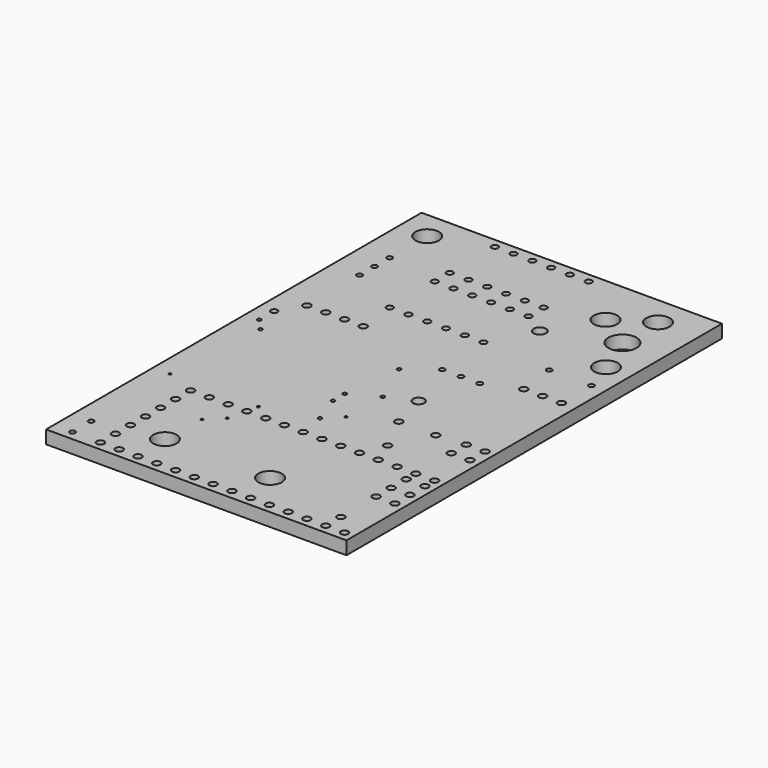
from build123d import *

# Parameters (mm, degrees)
MAINSKETCH_W    = 40.64
MAINSKETCH_H    = 63.5
MAIN_DEPTH      = 1.778
HOLESKETCH_R    = 1.5875
HOLESKETCH_R_2  = 1.905
HOLESKETCH_R_3  = 0.250152
HOLESKETCH_R_4  = 0.254962
HOLESKETCH_R_5  = 0.442576
HOLESKETCH_R_6  = 0.505114
HOLESKETCH_R_7  = 0.774508
HOLESKETCH_R_8  = 0.846667
HOLESKETCH_R_9  = 0.509924
HOLESKETCH_R_10 = 0.365606
HOLESKETCH_R_11 = 0.182803
HOLESKETCH_R_12 = 0.177992
HOLESKETCH_R_13 = 0.173182
HOLES_DEPTH     = 3.556


with BuildPart() as part:
    # MainSketch → Main (new body)
    with BuildSketch(Plane.XY):
        with Locations((20.32, 31.75)):
            Rectangle(MAINSKETCH_W, MAINSKETCH_H)
    extrude(amount=MAIN_DEPTH)

    # HoleSketch → Holes (cut)
    with BuildSketch(Plane.XY):
        with Locations((35.184773, 59.507197)):
            Circle(HOLESKETCH_R)
        with Locations((35.175152, 53.513182)):
            Circle(HOLESKETCH_R_2)
        with Locations((30.489621, 56.505379)):
            Circle(HOLESKETCH_R)
        with Locations((3.367424, 32.038636)):
            Circle(HOLESKETCH_R_3)
        with Locations((20.993485, 20.069848)):
            Circle(HOLESKETCH_R_3)
        with Locations((1.905, 33.664621)):
            Circle(HOLESKETCH_R_4)
        with Locations((20.522045, 34.059091)):
            Circle(HOLESKETCH_R_4)
        with Locations((19.540682, 26.073485)):
            Circle(HOLESKETCH_R_4)
        with Locations((19.569545, 24.062652)):
            Circle(HOLESKETCH_R_4)
        with Locations((23.629697, 62.23)):
            Circle(HOLESKETCH_R_5)
        with Locations((23.629697, 54.61)):
            Circle(HOLESKETCH_R_5)
        with Locations((21.089697, 62.23)):
            Circle(HOLESKETCH_R_5)
        with Locations((21.089697, 54.61)):
            Circle(HOLESKETCH_R_5)
        with Locations((18.549697, 62.23)):
            Circle(HOLESKETCH_R_5)
        with Locations((18.549697, 54.61)):
            Circle(HOLESKETCH_R_5)
        with Locations((16.009697, 62.23)):
            Circle(HOLESKETCH_R_5)
        with Locations((16.009697, 54.61)):
            Circle(HOLESKETCH_R_5)
        with Locations((13.469697, 62.23)):
            Circle(HOLESKETCH_R_5)
        with Locations((10.929697, 62.23)):
            Circle(HOLESKETCH_R_5)
        with Locations((13.469697, 54.61)):
            Circle(HOLESKETCH_R_5)
        with Locations((10.929697, 54.61)):
            Circle(HOLESKETCH_R_5)
        with Locations((6.35, 1.260379)):
            Circle(HOLESKETCH_R_6)
        with Locations((8.89, 1.260379)):
            Circle(HOLESKETCH_R_6)
        with Locations((11.43, 1.260379)):
            Circle(HOLESKETCH_R_6)
        with Locations((6.35, 16.500379)):
            Circle(HOLESKETCH_R_6)
        with Locations((6.35, 3.800379)):
            Circle(HOLESKETCH_R_6)
        with Locations((6.35, 6.340379)):
            Circle(HOLESKETCH_R_6)
        with Locations((6.35, 8.880379)):
            Circle(HOLESKETCH_R_6)
        with Locations((6.35, 11.420379)):
            Circle(HOLESKETCH_R_6)
        with Locations((6.35, 13.960379)):
            Circle(HOLESKETCH_R_6)
        with Locations((13.97, 1.260379)):
            Circle(HOLESKETCH_R_6)
        with Locations((16.51, 1.260379)):
            Circle(HOLESKETCH_R_6)
        with Locations((19.05, 1.260379)):
            Circle(HOLESKETCH_R_6)
        with Locations((21.59, 1.260379)):
            Circle(HOLESKETCH_R_6)
        with Locations((24.13, 1.260379)):
            Circle(HOLESKETCH_R_6)
        with Locations((26.67, 1.260379)):
            Circle(HOLESKETCH_R_6)
        with Locations((29.21, 1.260379)):
            Circle(HOLESKETCH_R_6)
        with Locations((31.75, 1.260379)):
            Circle(HOLESKETCH_R_6)
        with Locations((34.29, 1.260379)):
            Circle(HOLESKETCH_R_6)
        with Locations((36.83, 1.260379)):
            Circle(HOLESKETCH_R_6)
        with Locations((39.37, 1.260379)):
            Circle(HOLESKETCH_R_6)
        with Locations((8.89, 16.500379)):
            Circle(HOLESKETCH_R_6)
        with Locations((11.43, 16.500379)):
            Circle(HOLESKETCH_R_6)
        with Locations((13.97, 16.500379)):
            Circle(HOLESKETCH_R_6)
        with Locations((16.51, 16.500379)):
            Circle(HOLESKETCH_R_6)
        with Locations((19.05, 16.500379)):
            Circle(HOLESKETCH_R_6)
        with Locations((21.59, 16.500379)):
            Circle(HOLESKETCH_R_6)
        with Locations((24.13, 16.500379)):
            Circle(HOLESKETCH_R_6)
        with Locations((26.67, 16.500379)):
            Circle(HOLESKETCH_R_6)
        with Locations((29.21, 16.500379)):
            Circle(HOLESKETCH_R_6)
        with Locations((31.75, 16.500379)):
            Circle(HOLESKETCH_R_6)
        with Locations((34.29, 16.500379)):
            Circle(HOLESKETCH_R_6)
        with Locations((36.83, 16.500379)):
            Circle(HOLESKETCH_R_6)
        with Locations((39.37, 16.500379)):
            Circle(HOLESKETCH_R_6)
        with Locations((36.83, 3.800379)):
            Circle(HOLESKETCH_R_6)
        with Locations((25.409621, 6.10947)):
            Circle(HOLESKETCH_R)
        with Locations((3.819621, 59.680379)):
            Circle(HOLESKETCH_R)
        with Locations((11.18947, 6.10947)):
            Circle(HOLESKETCH_R)
        with Locations((26.67, 29.662197)):
            Circle(HOLESKETCH_R_7)
        with Locations((26.67, 50.165)):
            Circle(HOLESKETCH_R_8)
        with Locations((39.37, 12.324773)):
            Circle(HOLESKETCH_R_6)
        with Locations((39.37, 9.784773)):
            Circle(HOLESKETCH_R_6)
        with Locations((36.83, 9.784773)):
            Circle(HOLESKETCH_R_6)
        with Locations((39.37, 14.864773)):
            Circle(HOLESKETCH_R_6)
        with Locations((36.83, 12.324773)):
            Circle(HOLESKETCH_R_6)
        with Locations((36.83, 14.864773)):
            Circle(HOLESKETCH_R_6)
        with Locations((30.48, 19.675379)):
            Circle(HOLESKETCH_R_6)
        with Locations((32.981515, 24.678409)):
            Circle(HOLESKETCH_R_6)
        with Locations((27.988106, 24.678409)):
            Circle(HOLESKETCH_R_9)
        with Locations((39.37, 22.484773)):
            Circle(HOLESKETCH_R_6)
        with Locations((36.83, 22.484773)):
            Circle(HOLESKETCH_R_6)
        with Locations((39.37, 25.024773)):
            Circle(HOLESKETCH_R_6)
        with Locations((36.83, 25.024773)):
            Circle(HOLESKETCH_R_6)
        with Locations((38.735, 38.725379)):
            Circle(HOLESKETCH_R_6)
        with Locations((33.655, 38.725379)):
            Circle(HOLESKETCH_R_6)
        with Locations((36.195, 38.725379)):
            Circle(HOLESKETCH_R_6)
        with Locations((37.301439, 48.057955)):
            Circle(HOLESKETCH_R)
        with Locations((3.81, 48.26)):
            Circle(HOLESKETCH_R_10)
        with Locations((3.81, 53.34)):
            Circle(HOLESKETCH_R_10)
        with Locations((3.81, 50.8)):
            Circle(HOLESKETCH_R_10)
        with Locations((29.21, 36.83)):
            Circle(HOLESKETCH_R_10)
        with Locations((24.13, 36.83)):
            Circle(HOLESKETCH_R_10)
        with Locations((26.67, 36.83)):
            Circle(HOLESKETCH_R_10)
        with Locations((3.81, 39.360379)):
            Circle(HOLESKETCH_R_6)
        with Locations((6.35, 39.360379)):
            Circle(HOLESKETCH_R_6)
        with Locations((8.89, 39.360379)):
            Circle(HOLESKETCH_R_6)
        with Locations((11.43, 39.360379)):
            Circle(HOLESKETCH_R_6)
        with Locations((23.110152, 28.045833)):
            Circle(HOLESKETCH_R_4)
        with Locations((1.905, 36.195)):
            Circle(HOLESKETCH_R_5)
        with Locations((23.629697, 52.07)):
            Circle(HOLESKETCH_R_5)
        with Locations((23.629697, 44.45)):
            Circle(HOLESKETCH_R_5)
        with Locations((21.089697, 52.07)):
            Circle(HOLESKETCH_R_5)
        with Locations((21.089697, 44.45)):
            Circle(HOLESKETCH_R_5)
        with Locations((18.549697, 52.07)):
            Circle(HOLESKETCH_R_5)
        with Locations((18.549697, 44.45)):
            Circle(HOLESKETCH_R_5)
        with Locations((16.009697, 52.07)):
            Circle(HOLESKETCH_R_5)
        with Locations((16.009697, 44.45)):
            Circle(HOLESKETCH_R_5)
        with Locations((13.469697, 52.07)):
            Circle(HOLESKETCH_R_5)
        with Locations((10.929697, 52.07)):
            Circle(HOLESKETCH_R_5)
        with Locations((13.469697, 44.45)):
            Circle(HOLESKETCH_R_5)
        with Locations((10.929697, 44.45)):
            Circle(HOLESKETCH_R_5)
        with Locations((14.249015, 18.078258)):
            Circle(HOLESKETCH_R_11)
        with Locations((2.289848, 18.078258)):
            Circle(HOLESKETCH_R_12)
        with Locations((22.956212, 22.032576)):
            Circle(HOLESKETCH_R_13)
        with Locations((13.335, 13.97)):
            Circle(HOLESKETCH_R_13)
        with Locations((11.43, 12.065)):
            Circle(HOLESKETCH_R_13)
        with Locations((38.735, 43.815)):
            Circle(HOLESKETCH_R_10)
        with Locations((33.02, 43.815)):
            Circle(HOLESKETCH_R_10)
        with Locations((2.54, 1.27)):
            Circle(HOLESKETCH_R_10)
        with Locations((2.54, 4.445)):
            Circle(HOLESKETCH_R_10)
    extrude(amount=HOLES_DEPTH, mode=Mode.SUBTRACT)


solid = part.part
